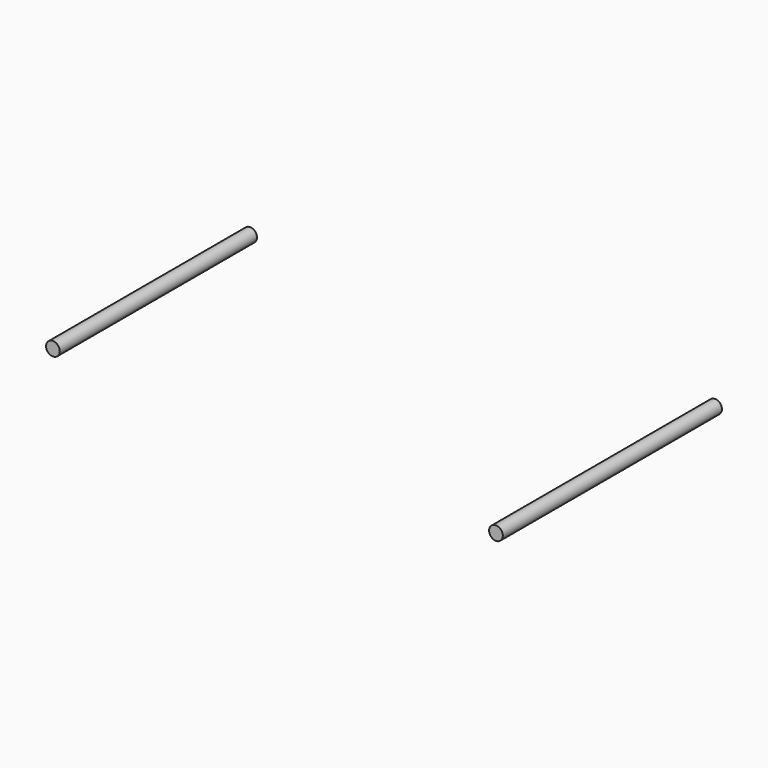
from build123d import *

# Parameters (mm, degrees)
F0_R     = 1.5875
F2_DEPTH = 57.15
F1_R     = 1.5875
F3_DEPTH = 63.5


with BuildPart() as f2:
    # F0 (on Front) → F2 (new body)
    with BuildSketch(Plane.XZ):
        with Locations((-61.976, 0)):
            Circle(F0_R)
    extrude(amount=F2_DEPTH)


with BuildPart() as f3:
    # F1 (on Front) → F3 (new body)
    with BuildSketch(Plane.XZ):
        with Locations((45.816188, 0)):
            Circle(F1_R)
    extrude(amount=F3_DEPTH)


solid = Compound([f2.part, f3.part])
